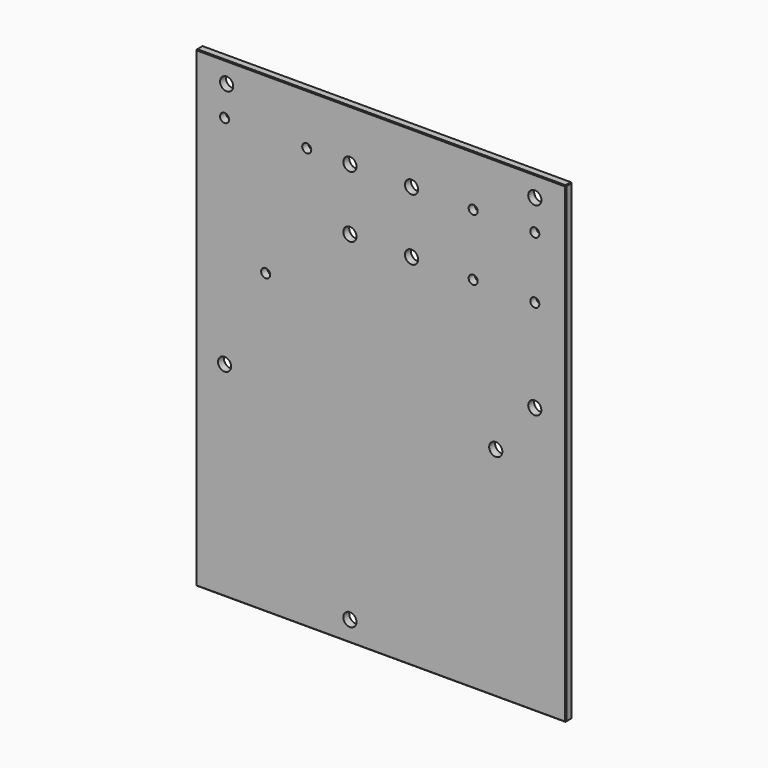
from build123d import *

# Parameters (mm, degrees)
F0_W     = 90
F0_H     = 115
F0_R     = 1.6
F0_R_2   = 1.1
F1_DEPTH = 2
F2_SIZE  = 0.2


with BuildPart() as f1:
    # F0 (on Front) → F1 (new body)
    with BuildSketch(Plane.XZ):
        Rectangle(F0_W, F0_H)
        with Locations((-7.5, -52.5)):
            Circle(F0_R, mode=Mode.SUBTRACT)
        with Locations((-38, -7.7)):
            Circle(F0_R, mode=Mode.SUBTRACT)
        with Locations((28, -4.5)):
            Circle(F0_R, mode=Mode.SUBTRACT)
        with Locations((-28, 15.052562)):
            Circle(F0_R_2, mode=Mode.SUBTRACT)
        with Locations((-38, 45.052562)):
            Circle(F0_R_2, mode=Mode.SUBTRACT)
        with Locations((-37.5, 52.5)):
            Circle(F0_R, mode=Mode.SUBTRACT)
        with Locations((-7.5, 30.052562)):
            Circle(F0_R, mode=Mode.SUBTRACT)
        with Locations((-18, 45.052562)):
            Circle(F0_R_2, mode=Mode.SUBTRACT)
        with Locations((-7.5, 45.052562)):
            Circle(F0_R, mode=Mode.SUBTRACT)
        with Locations((37.5, 7.5)):
            Circle(F0_R, mode=Mode.SUBTRACT)
        with Locations((7.5, 30.052562)):
            Circle(F0_R, mode=Mode.SUBTRACT)
        with Locations((7.5, 45.052562)):
            Circle(F0_R, mode=Mode.SUBTRACT)
        with Locations((22.5, 30.052562)):
            Circle(F0_R_2, mode=Mode.SUBTRACT)
        with Locations((37.5, 30.052562)):
            Circle(F0_R_2, mode=Mode.SUBTRACT)
        with Locations((22.5, 45.052562)):
            Circle(F0_R_2, mode=Mode.SUBTRACT)
        with Locations((37.5, 45.052562)):
            Circle(F0_R_2, mode=Mode.SUBTRACT)
        with Locations((37.5, 52.5)):
            Circle(F0_R, mode=Mode.SUBTRACT)
    extrude(amount=F1_DEPTH)

    # F2
    f2_edges = [f1.edges().sort_by_distance(p)[0] for p in [
        (45, -2, 0),
        (0, -2, -57.5),
        (45, 0, 0),
        (0, 0, -57.5),
        (45, -1, -57.5),
        (-45, -1, -57.5),
        (-45, -2, 0),
        (-45, 0, 0),
        (0, 0, 57.5),
        (-9.1, 0, -52.5),
        (-39.6, 0, -7.7),
        (26.4, 0, -4.5),
        (-29.1, 0, 15.052562),
        (-39.1, 0, 45.052562),
        (-39.1, 0, 52.5),
        (-9.1, 0, 30.052562),
        (-19.1, 0, 45.052562),
        (-9.1, 0, 45.052562),
        (35.9, 0, 7.5),
        (5.9, 0, 30.052562),
        (5.9, 0, 45.052562),
        (21.4, 0, 30.052562),
        (36.4, 0, 30.052562),
        (21.4, 0, 45.052562),
        (36.4, 0, 45.052562),
        (35.9, 0, 52.5),
        (0, -2, 57.5),
        (45, -1, 57.5),
        (-45, -1, 57.5),
    ]]
    chamfer(f2_edges, length=F2_SIZE)


solid = f1.part
